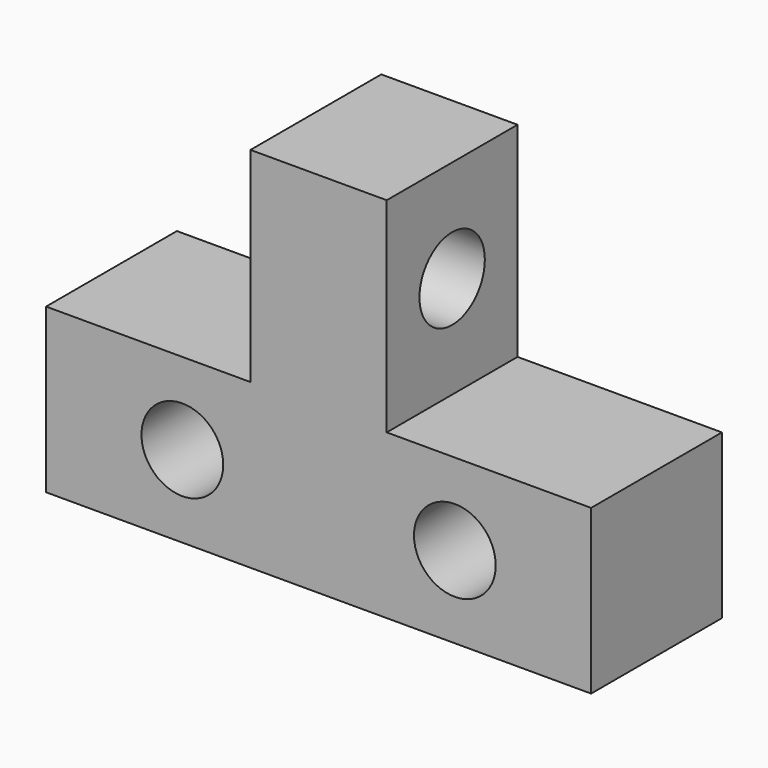
from build123d import *

# Parameters (mm, degrees)
F0_R     = 3
F0_W     = 10
F0_H     = 15
F1_DEPTH = 12
F2_R     = 3
F3_DEPTH = 25


with BuildPart() as f1:
    # F0 (on Front) → F1 (new body)
    with BuildSketch(Plane.XZ):
        Polygon((0, 12), (0, 0), (40, 0), (40, 12), (25, 12), (15, 12), align=None)
        with Locations((10, 6)):
            Circle(F0_R, mode=Mode.SUBTRACT)
        with BuildLine():
            ThreePointArc((33, 6), (30, 3), (27, 6))
            ThreePointArc((27, 6), (30, 9), (33, 6))
        make_face(mode=Mode.SUBTRACT)
        with Locations((20, 19.5)):
            Rectangle(F0_W, F0_H)
    extrude(amount=F1_DEPTH)

    # F2 (on face) → F3 (cut)
    with BuildSketch(Plane.YZ.offset(25)):
        with Locations((-6, 19.5)):
            Circle(F2_R)
    extrude(amount=-F3_DEPTH, mode=Mode.SUBTRACT)


solid = f1.part
